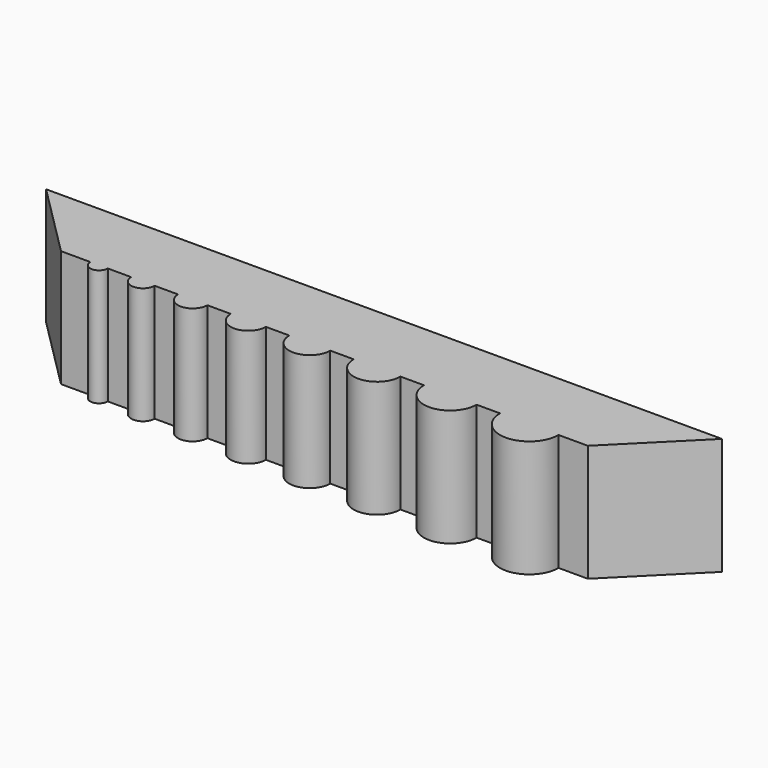
from build123d import *

# Parameters (mm, degrees)
F1_DEPTH = 100


with BuildPart() as f1:
    # F0 (on Top) → F1 (new body)
    with BuildSketch(Plane.XY):
        with BuildLine():
            ThreePointArc((375, 0), (400, 25), (425, 0))
            Line((425, 0), (450, 0))
            Line((450, 0), (513.6396103068, 63.6396103068))
            Line((513.6396103068, 63.6396103068), (-63.6396103068, 63.6396103068))
            Line((-63.6396103068, 63.6396103068), (0, 0))
            Line((0, 0), (25, 0))
            ThreePointArc((25, 0), (32.5, 7.5), (40, 0))
            Line((40, 0), (60, 0))
            ThreePointArc((60, 0), (70, 10), (80, 0))
            Line((80, 0), (100, 0))
            ThreePointArc((100, 0), (112.5, 12.5), (125, 0))
            Line((125, 0), (145, 0))
            ThreePointArc((145, 0), (160, 15), (175, 0))
            Line((175, 0), (195, 0))
            ThreePointArc((195, 0), (212.5, 17.5), (230, 0))
            Line((230, 0), (250, 0))
            ThreePointArc((250, 0), (270, 20), (290, 0))
            Line((290, 0), (310, 0))
            ThreePointArc((310, 0), (332.5, 22.5), (355, 0))
            Line((355, 0), (375, 0))
        make_face()
        with BuildLine():
            ThreePointArc((40, 0), (32.5, 7.5), (25, 0))
            Line((25, 0), (40, 0))
        make_face()
        with BuildLine():
            Line((40, 0), (25, 0))
            ThreePointArc((25, 0), (32.5, -7.5), (40, 0))
        make_face()
        with BuildLine():
            ThreePointArc((80, 0), (70, 10), (60, 0))
            Line((60, 0), (80, 0))
        make_face()
        with BuildLine():
            Line((80, 0), (60, 0))
            ThreePointArc((60, 0), (70, -10), (80, 0))
        make_face()
        with BuildLine():
            Line((125, 0), (100, 0))
            ThreePointArc((100, 0), (112.5, -12.5), (125, 0))
        make_face()
        with BuildLine():
            ThreePointArc((125, 0), (112.5, 12.5), (100, 0))
            Line((100, 0), (125, 0))
        make_face()
        with BuildLine():
            ThreePointArc((145, 0), (160, -15), (175, 0))
            Line((175, 0), (145, 0))
        make_face()
        with BuildLine():
            Line((145, 0), (175, 0))
            ThreePointArc((175, 0), (160, 15), (145, 0))
        make_face()
        with BuildLine():
            ThreePointArc((195, 0), (212.5, -17.5), (230, 0))
            Line((230, 0), (195, 0))
        make_face()
        with BuildLine():
            Line((195, 0), (230, 0))
            ThreePointArc((230, 0), (212.5, 17.5), (195, 0))
        make_face()
        with BuildLine():
            ThreePointArc((250, 0), (270, -20), (290, 0))
            Line((290, 0), (250, 0))
        make_face()
        with BuildLine():
            Line((250, 0), (290, 0))
            ThreePointArc((290, 0), (270, 20), (250, 0))
        make_face()
        with BuildLine():
            ThreePointArc((310, 0), (332.5, -22.5), (355, 0))
            Line((355, 0), (310, 0))
        make_face()
        with BuildLine():
            Line((310, 0), (355, 0))
            ThreePointArc((355, 0), (332.5, 22.5), (310, 0))
        make_face()
        with BuildLine():
            ThreePointArc((375, 0), (400, -25), (425, 0))
            Line((425, 0), (375, 0))
        make_face()
        with BuildLine():
            Line((375, 0), (425, 0))
            ThreePointArc((425, 0), (400, 25), (375, 0))
        make_face()
    extrude(amount=F1_DEPTH)


solid = f1.part
